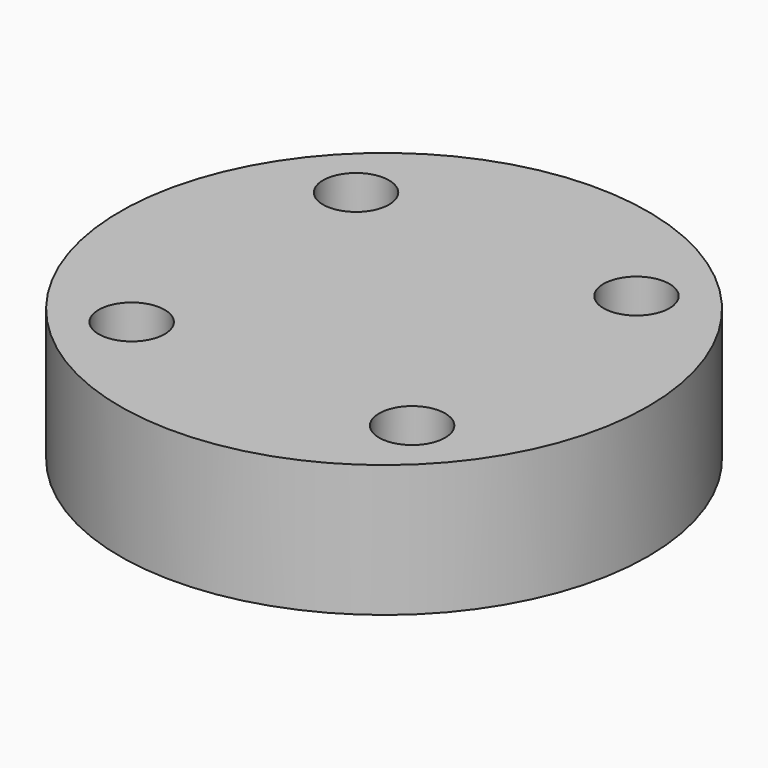
from build123d import *

# Parameters (mm, degrees)
CYLINDER1036_R     = 1
CYLINDER1036_DEPTH = 20
CYLINDER1029_R     = 1
CYLINDER1029_DEPTH = 20
CYLINDER1024_R     = 1
CYLINDER1024_DEPTH = 20
CYLINDER1028_R     = 1
CYLINDER1028_DEPTH = 20
CYLINDER1035_R     = 8
CYLINDER1035_DEPTH = 4


with BuildPart() as obj1:
    # Cylinder1036 → Cylinder1036 (new body)
    with BuildSketch(Plane(origin=(4.25, -4.25, -88), x_dir=(0, 1, 0), z_dir=(0, 0, 1))):
        Circle(CYLINDER1036_R)
    extrude(amount=CYLINDER1036_DEPTH)


with BuildPart() as obj2:
    # Cylinder1029 → Cylinder1029 (new body)
    with BuildSketch(Plane(origin=(4.25, 4.25, -88), x_dir=(-1, 0, 0), z_dir=(0, 0, 1))):
        Circle(CYLINDER1029_R)
    extrude(amount=CYLINDER1029_DEPTH)


with BuildPart() as obj3:
    # Cylinder1024 → Cylinder1024 (new body)
    with BuildSketch(Plane(origin=(-4.25, 4.25, -88), x_dir=(0, -1, 0), z_dir=(0, 0, 1))):
        Circle(CYLINDER1024_R)
    extrude(amount=CYLINDER1024_DEPTH)


with BuildPart() as compound831:
    # Cylinder1028 → Cylinder1028 (new body)
    with BuildSketch(Plane(origin=(-4.25, -4.25, -88), x_dir=(1, 0, 0), z_dir=(0, 0, 1))):
        Circle(CYLINDER1028_R)
    extrude(amount=CYLINDER1028_DEPTH)

    # Compound831: union obj1, obj2, obj3
    add(obj1.part)
    add(obj2.part)
    add(obj3.part)


with BuildPart() as compound831_1:
    # Compound831 placement: moved
    add(compound831.part.moved(Location((0, 0, 91))))


with BuildPart() as cut373:
    # Cylinder1035 → Cylinder1035 (new body)
    with BuildSketch(Plane.XY.offset(15)):
        Circle(CYLINDER1035_R)
    extrude(amount=CYLINDER1035_DEPTH)

    # Cut373: cut Compound831
    add(compound831_1.part, mode=Mode.SUBTRACT)


solid = cut373.part
